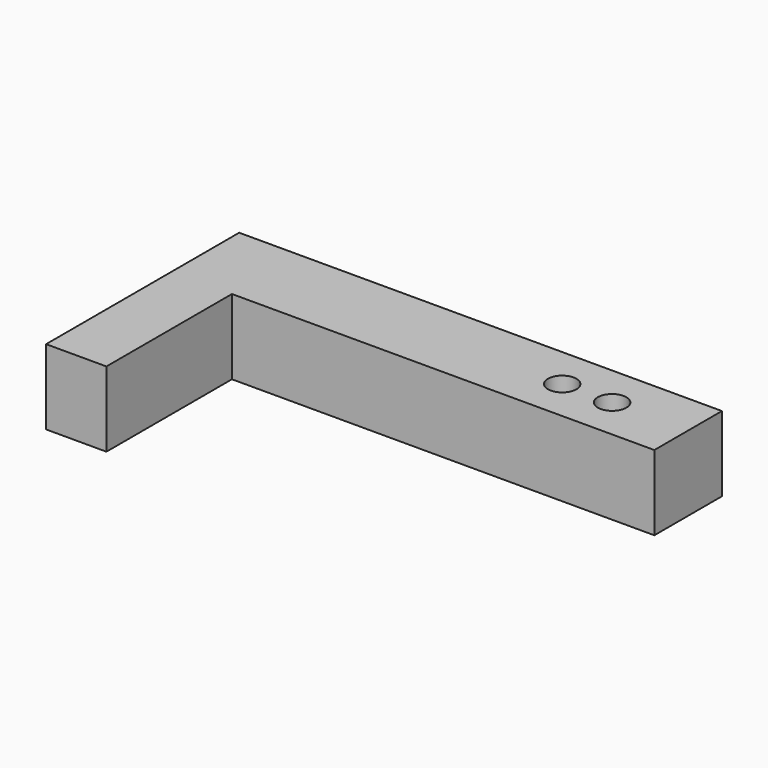
from build123d import *

# Parameters (mm, degrees)
F1_DEPTH = 7.9
F3_DEPTH = 25.4


with BuildPart() as f1:
    # F0 (on Top) → F1 (new body)
    with BuildSketch(Plane.XY):
        Polygon((-50.8, 0), (-44.45, 0), (-44.45, 16.51), (0, 16.51), (0, 25.4), (-50.8, 25.4), align=None)
    extrude(amount=F1_DEPTH)

    # F2 (on face) → F3 (cut)
    with BuildSketch(Plane(origin=(0, 0, 0), x_dir=(1, 0, 0), z_dir=(0, 0, -1))):
        with BuildLine():
            Line((-9.5, -20.955), (-6.5, -20.955))
            ThreePointArc((-6.5, -20.955), (-8, -19.455), (-9.5, -20.955))
        make_face()
        with BuildLine():
            ThreePointArc((-14.75, -20.955), (-13.25, -22.455), (-11.75, -20.955))
            Line((-11.75, -20.955), (-14.75, -20.955))
        make_face()
        with BuildLine():
            Line((-14.75, -20.955), (-11.75, -20.955))
            ThreePointArc((-11.75, -20.955), (-13.25, -19.455), (-14.75, -20.955))
        make_face()
        with BuildLine():
            ThreePointArc((-9.5, -20.955), (-8, -22.455), (-6.5, -20.955))
            Line((-6.5, -20.955), (-9.5, -20.955))
        make_face()
    extrude(amount=-F3_DEPTH, mode=Mode.SUBTRACT)


solid = f1.part
